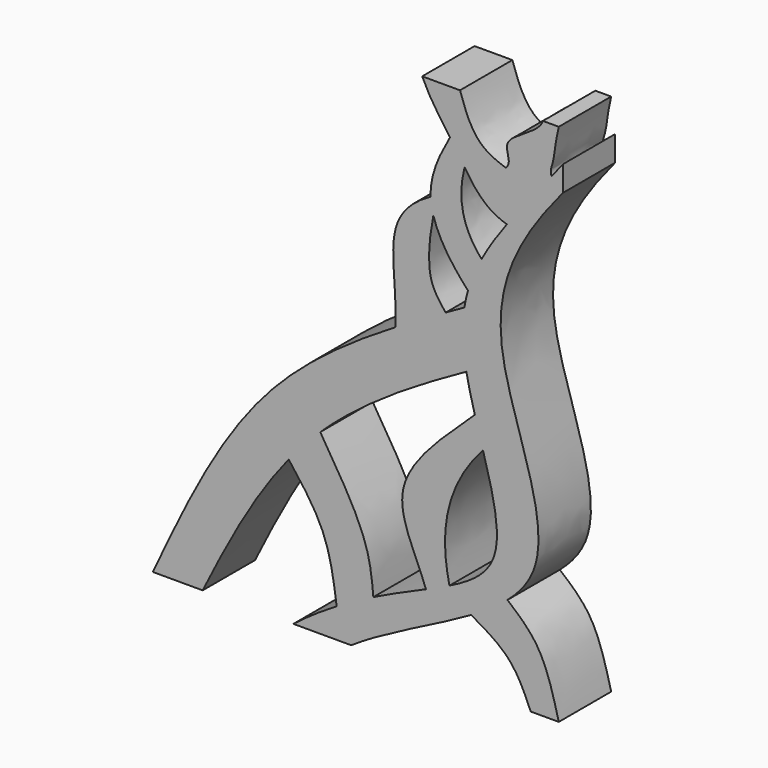
from build123d import *

# Parameters (mm, degrees)
F1_DEPTH = 50


with BuildPart() as f1:
    # F0 (on Front) → F1 (new body)
    with BuildSketch(Plane.XZ):
        with BuildLine():
            add(Edge.make_bspline(
                [(33.7840405817, 32.4410954859), (-1.3350670747, 11.1961369565), (-82.9727851373, -45.9388415897), (-125.8274168712, -137.6125319097), (-151.4273277136, -192.3071747745)],
                knots=[0.1650923147, 0.1650923147, 0.1650923147, 0.1650923147, 0.5023647043, 1, 1, 1, 1], degree=3))
            Line((-151.4273277136, -192.3071747745), (-113.3603453636, -192.3071747745))
            add(Edge.make_bspline(
                [(-47.6813485904, -82.8825103726), (-73.9418191046, -115.1830009143), (-94.0292507398, -153.2818472534), (-113.3603453636, -192.3071747745)],
                knots=[0.5680635842, 0.5680635842, 0.5680635842, 0.5680635842, 1, 1, 1, 1], degree=3))
            add(Edge.make_bspline(
                [(-23.5778673601, -56.7194873224), (-27.8845088808, -60.8451196614), (-36.1979815182, -69.3017688301), (-43.9455530092, -78.2874659017), (-47.6813485904, -82.8825103726)],
                knots=[0.44475387, 0.44475387, 0.44475387, 0.44475387, 0.5066166215, 0.5680635842, 0.5680635842, 0.5680635842, 0.5680635842], degree=3))
            add(Edge.make_bspline(
                [(87.9483139372, 20.1501727821), (45.3698576212, -3.4429156349), (7.3841483298, -27.0588126184), (-23.5778673601, -56.7194873224)],
                knots=[0, 0, 0, 0, 0.44475387, 0.44475387, 0.44475387, 0.44475387], degree=3))
            add(Edge.make_bspline(
                [(86.4029882629, 62.7652361886), (85.449929096, 56.9509946506), (84.4401796439, 43.3835035509), (86.3354202415, 28.6006214532), (87.9483139372, 20.1501727821)],
                knots=[0.2898066076, 0.2898066076, 0.2898066076, 0.2898066076, 0.3311800495, 0.3836336632, 0.3836336632, 0.3836336632, 0.3836336632], degree=3))
            add(Edge.make_bspline(
                [(86.4029882629, 62.7652361886), (81.6406325524, 60.0877235039), (76.8798373396, 57.4106422817), (72.1301305263, 54.7253465386)],
                knots=[0, 0, 0, 0, 0.0443569986, 0.0443569986, 0.0443569986, 0.0443569986], degree=3))
            add(Edge.make_bspline(
                [(72.1301305263, 54.7253465386), (59.2019033995, 47.4162399695), (46.35582734, 40.0462741519), (33.7840405817, 32.4410954859)],
                knots=[0.0443569986, 0.0443569986, 0.0443569986, 0.0443569986, 0.1650923147, 0.1650923147, 0.1650923147, 0.1650923147], degree=3))
        make_face()
        with BuildLine():
            add(Edge.make_bspline(
                [(-47.6813485904, -82.8825103726), (-37.6976178586, -95.8078145278), (-17.6570022581, -121.6548352785), (-13.2867608742, -153.7004230944), (-11.0641516952, -169.7119861588)],
                knots=[0, 0, 0, 0, 0.5013709336, 1, 1, 1, 1], degree=3))
            add(Edge.make_bspline(
                [(16.9321630542, -154.4396487608), (7.9475731058, -158.9016267331), (-1.4242642684, -163.9163277691), (-11.0641516952, -169.7119861588)],
                knots=[0.8987923644, 0.8987923644, 0.8987923644, 0.8987923644, 0.9466643403, 0.9466643403, 0.9466643403, 0.9466643403], degree=3))
            add(Edge.make_bspline(
                [(-23.5778673601, -56.7194873224), (-10.048506017, -78.2254081232), (13.3855203997, -115.4324178206), (15.8758483062, -142.8745703905), (16.9321630542, -154.4396487608)],
                knots=[0, 0, 0, 0, 0.5786754475, 1, 1, 1, 1], degree=3))
            add(Edge.make_bspline(
                [(-23.5778673601, -56.7194873224), (-27.8845088808, -60.8451196614), (-36.1979815182, -69.3017688301), (-43.9455530092, -78.2874659017), (-47.6813485904, -82.8825103726)],
                knots=[0.44475387, 0.44475387, 0.44475387, 0.44475387, 0.5066166215, 0.5680635842, 0.5680635842, 0.5680635842, 0.5680635842], degree=3))
        make_face()
        with BuildLine():
            Line((161.5726722864, 164.2289310694), (161.5726722864, 183.500433121))
            add(Edge.make_bspline(
                [(161.5726722864, 183.500433121), (158.6697561937, 179.7603709259), (155.7997051715, 176.1136274949), (152.9720624863, 172.5488397796)],
                knots=[0, 0, 0, 0, 0.0227975426, 0.0227975426, 0.0227975426, 0.0227975426], degree=3))
            add(Edge.make_bspline(
                [(152.9720624863, 172.5488397796), (149.5266021616, 168.2051740458), (146.144106472, 163.9831898515), (142.8418403639, 159.8623300408)],
                knots=[0.0227975426, 0.0227975426, 0.0227975426, 0.0227975426, 0.0505761686, 0.0505761686, 0.0505761686, 0.0505761686], degree=3))
            add(Edge.make_bspline(
                [(142.8418403639, 159.8623300408), (134.2230298354, 149.1070157325), (126.1507380473, 139.0405542113), (118.931917396, 129.2974610904)],
                knots=[0.0505761686, 0.0505761686, 0.0505761686, 0.0505761686, 0.1230775075, 0.1230775075, 0.1230775075, 0.1230775075], degree=3))
            add(Edge.make_bspline(
                [(118.931917396, 129.2974610904), (111.4275135493, 119.1689222297), (104.8454447873, 109.3898433661), (99.5305536728, 99.5496247644)],
                knots=[0.1230775075, 0.1230775075, 0.1230775075, 0.1230775075, 0.1984470661, 0.1984470661, 0.1984470661, 0.1984470661], degree=3))
            add(Edge.make_bspline(
                [(99.5305536728, 99.5496247644), (95.1743477908, 91.4843573429), (91.6694084315, 83.3780173754), (89.2056084764, 75.0045255924)],
                knots=[0.1984470661, 0.1984470661, 0.1984470661, 0.1984470661, 0.260221674, 0.260221674, 0.260221674, 0.260221674], degree=3))
            add(Edge.make_bspline(
                [(89.2056084764, 75.0045255924), (88.0256518483, 70.9943148164), (87.0844928908, 66.9228296031), (86.4029882629, 62.7652361886)],
                knots=[0.260221674, 0.260221674, 0.260221674, 0.260221674, 0.2898066076, 0.2898066076, 0.2898066076, 0.2898066076], degree=3))
            add(Edge.make_bspline(
                [(86.4029882629, 62.7652361886), (85.449929096, 56.9509946506), (84.4401796439, 43.3835035509), (86.3354202415, 28.6006214532), (87.9483139372, 20.1501727821)],
                knots=[0.2898066076, 0.2898066076, 0.2898066076, 0.2898066076, 0.3311800495, 0.3836336632, 0.3836336632, 0.3836336632, 0.3836336632], degree=3))
            add(Edge.make_bspline(
                [(87.9483139372, 20.1501727821), (89.6334036756, 11.3214667244), (91.9225091752, 2.2895818916), (94.4113235468, -6.7245809888)],
                knots=[0.3836336632, 0.3836336632, 0.3836336632, 0.3836336632, 0.4384351956, 0.4384351956, 0.4384351956, 0.4384351956], degree=3))
            add(Edge.make_bspline(
                [(94.4113235468, -6.7245809888), (96.4305537515, -14.0379709171), (98.5812410463, -21.3396954834), (100.6474662993, -28.5117831797)],
                knots=[0.4384351956, 0.4384351956, 0.4384351956, 0.4384351956, 0.4828968922, 0.4828968922, 0.4828968922, 0.4828968922], degree=3))
            add(Edge.make_bspline(
                [(100.6474662993, -28.5117831797), (108.2301787006, -54.8321847135), (119.9469648226, -99.5063533785), (92.6369226658, -119.1415299059), (75.0321073118, -127.8520125935)],
                knots=[0.4828968922, 0.4828968922, 0.4828968922, 0.4828968922, 0.6460641257, 0.7795199626, 0.7795199626, 0.7795199626, 0.7795199626], degree=3))
            add(Edge.make_bspline(
                [(75.0321073118, -127.8520125935), (69.5360042843, -130.5713657539), (63.5216279141, -133.2786604033), (57.0675570237, -136.1243560803)],
                knots=[0.7795199626, 0.7795199626, 0.7795199626, 0.7795199626, 0.8211839627, 0.8211839627, 0.8211839627, 0.8211839627], degree=3))
            add(Edge.make_bspline(
                [(57.0675570237, -136.1243560803), (45.045424625, -141.4250927436), (31.4976714177, -147.2060434603), (16.9321630542, -154.4396487608)],
                knots=[0.8211839627, 0.8211839627, 0.8211839627, 0.8211839627, 0.8987923644, 0.8987923644, 0.8987923644, 0.8987923644], degree=3))
            add(Edge.make_bspline(
                [(16.9321630542, -154.4396487608), (7.9475731058, -158.9016267331), (-1.4242642684, -163.9163277691), (-11.0641516952, -169.7119861588)],
                knots=[0.8987923644, 0.8987923644, 0.8987923644, 0.8987923644, 0.9466643403, 0.9466643403, 0.9466643403, 0.9466643403], degree=3))
            add(Edge.make_bspline(
                [(-11.0641516952, -169.7119861588), (-21.8042505923, -176.1691097249), (-32.877076864, -183.5956264599), (-44.1177855636, -192.3071747745)],
                knots=[0.9466643403, 0.9466643403, 0.9466643403, 0.9466643403, 1, 1, 1, 1], degree=3))
            Line((-44.1177855636, -192.3071747745), (0, -192.3071747745))
            add(Edge.make_bspline(
                [(91.6558492517, -142.1554952409), (63.5808744263, -158.4654974972), (28.6929657416, -173.0898848198), (0, -192.3071747745)],
                knots=[0.8011074852, 0.8011074852, 0.8011074852, 0.8011074852, 1, 1, 1, 1], degree=3))
            add(Edge.make_bspline(
                [(119.3154431729, -123.0815035944), (111.4612420038, -129.8801116218), (102.0230483979, -136.1327279003), (91.6558492517, -142.1554952409)],
                knots=[0.7276627779, 0.7276627779, 0.7276627779, 0.7276627779, 0.8011074852, 0.8011074852, 0.8011074852, 0.8011074852], degree=3))
            add(Edge.make_bspline(
                [(161.5726722864, 164.2289310694), (127.9283165879, 123.741138071), (90.0243038422, 52.1079771624), (162.5005260377, -72.9909762919), (128.5067292283, -115.1255129324), (119.3154431729, -123.0815035944)],
                knots=[0, 0, 0, 0, 0.3115903654, 0.6417149775, 0.7276627779, 0.7276627779, 0.7276627779, 0.7276627779], degree=3))
        make_face()
        with BuildLine():
            add(Edge.make_bspline(
                [(119.3154431729, -123.0815035944), (127.8271004026, -130.229203514), (146.5347439848, -145.9824570753), (154.2952784291, -176.0164611644), (158.504858613, -192.3071747745)],
                knots=[0, 0, 0, 0, 0.4583695956, 1, 1, 1, 1], degree=3))
            add(Edge.make_bspline(
                [(119.3154431729, -123.0815035944), (111.4612420038, -129.8801116218), (102.0230483979, -136.1327279003), (91.6558492517, -142.1554952409)],
                knots=[0.7276627779, 0.7276627779, 0.7276627779, 0.7276627779, 0.8011074852, 0.8011074852, 0.8011074852, 0.8011074852], degree=3))
            add(Edge.make_bspline(
                [(91.6558492517, -142.1554952409), (102.2562480915, -148.266180717), (123.0818131064, -159.961158959), (132.4458816607, -181.5720975488), (137.090831995, -192.3071747745)],
                knots=[0, 0, 0, 0, 0.5038335041, 1, 1, 1, 1], degree=3))
            Line((137.090831995, -192.3071747745), (158.504858613, -192.3071747745))
        make_face()
        with BuildLine():
            add(Edge.make_bspline(
                [(94.4113235468, -6.7245809888), (96.4305537515, -14.0379709171), (98.5812410463, -21.3396954834), (100.6474662993, -28.5117831797)],
                knots=[0.4384351956, 0.4384351956, 0.4384351956, 0.4384351956, 0.4828968922, 0.4828968922, 0.4828968922, 0.4828968922], degree=3))
            add(Edge.make_bspline(
                [(94.4113235468, -6.7245809888), (69.8929498645, -30.0484086542), (20.7095259404, -72.3808334135), (49.418452744, -114.6003239541), (57.0675570237, -136.1243560803)],
                knots=[0, 0, 0, 0, 0.5429128164, 1, 1, 1, 1], degree=3))
            add(Edge.make_bspline(
                [(75.0321073118, -127.8520125935), (69.5360042843, -130.5713657539), (63.5216279141, -133.2786604033), (57.0675570237, -136.1243560803)],
                knots=[0.7795199626, 0.7795199626, 0.7795199626, 0.7795199626, 0.8211839627, 0.8211839627, 0.8211839627, 0.8211839627], degree=3))
            add(Edge.make_bspline(
                [(100.6474662993, -28.5117831797), (85.276066462, -45.5253793732), (69.9269817684, -77.6031695274), (71.0284103415, -109.5876994667), (75.0321073118, -127.8520125935)],
                knots=[0, 0, 0, 0, 0.5186390985, 1, 1, 1, 1], degree=3))
        make_face()
        with BuildLine():
            add(Edge.make_bspline(
                [(60.7451200485, 128.8491934538), (60.921887229, 124.9463354687), (61.6026617993, 120.996224136), (62.7479620056, 117.0065256713)],
                knots=[0.4677213645, 0.4677213645, 0.4677213645, 0.4677213645, 0.588178468, 0.588178468, 0.588178468, 0.588178468], degree=3))
            add(Edge.make_bspline(
                [(60.7451200485, 128.8491934538), (48.2162620465, 122.1917617815), (31.5432081965, 105.5782023832), (31.9272311169, 71.1430044589), (34.5814806954, 43.8973117153), (33.7840405817, 32.4410954859)],
                knots=[0, 0, 0, 0, 0.3329948055, 0.6525577446, 1, 1, 1, 1], degree=3))
            add(Edge.make_bspline(
                [(72.1301305263, 54.7253465386), (59.2019033995, 47.4162399695), (46.35582734, 40.0462741519), (33.7840405817, 32.4410954859)],
                knots=[0.0443569986, 0.0443569986, 0.0443569986, 0.0443569986, 0.1650923147, 0.1650923147, 0.1650923147, 0.1650923147], degree=3))
            add(Edge.make_bspline(
                [(62.7479620056, 117.0065256713), (59.6024302783, 101.0624498763), (57.2427035001, 73.977040262), (66.555671879, 61.7784809906), (72.1301305263, 54.7253465386)],
                knots=[0, 0, 0, 0, 0.5746656103, 1, 1, 1, 1], degree=3))
        make_face()
        with BuildLine():
            add(Edge.make_bspline(
                [(75.4271748481, 173.5246273106), (77.3752720663, 170.7812263834), (81.134719612, 165.4233111741), (84.7614654199, 159.7675420119), (86.5594399231, 157.0506042409)],
                knots=[0.3943758085, 0.3943758085, 0.3943758085, 0.3943758085, 0.4949279004, 0.5888141141, 0.5888141141, 0.5888141141, 0.5888141141], degree=3))
            add(Edge.make_bspline(
                [(75.4271748481, 173.5246273106), (66.9712117374, 158.4454793727), (60.0587529981, 144.0035513846), (60.7451200485, 128.8491934538)],
                knots=[0, 0, 0, 0, 0.4677213645, 0.4677213645, 0.4677213645, 0.4677213645], degree=3))
            add(Edge.make_bspline(
                [(60.7451200485, 128.8491934538), (60.921887229, 124.9463354687), (61.6026617993, 120.996224136), (62.7479620056, 117.0065256713)],
                knots=[0.4677213645, 0.4677213645, 0.4677213645, 0.4677213645, 0.588178468, 0.588178468, 0.588178468, 0.588178468], degree=3))
            add(Edge.make_bspline(
                [(62.7479620056, 117.0065256713), (66.6635408444, 103.3664522692), (76.0086586492, 89.2636705474), (89.2056084764, 75.0045255924)],
                knots=[0.588178468, 0.588178468, 0.588178468, 0.588178468, 1, 1, 1, 1], degree=3))
            add(Edge.make_bspline(
                [(99.5305536728, 99.5496247644), (95.1743477908, 91.4843573429), (91.6694084315, 83.3780173754), (89.2056084764, 75.0045255924)],
                knots=[0.1984470661, 0.1984470661, 0.1984470661, 0.1984470661, 0.260221674, 0.260221674, 0.260221674, 0.260221674], degree=3))
            add(Edge.make_bspline(
                [(86.5594399231, 157.0506042409), (83.9878015469, 147.0462299724), (82.836579489, 127.8427234548), (90.6243055451, 109.9335235527), (99.5305536728, 99.5496247644)],
                knots=[0, 0, 0, 0, 0.4816112661, 1, 1, 1, 1], degree=3))
        make_face()
        with BuildLine():
            add(Edge.make_bspline(
                [(83.0902010202, 207.6928252255), (87.110088997, 195.8396449748), (93.5872758475, 177.0872799999), (110.8460810758, 169.3792962525), (118.0063178545, 167.0171113404)],
                knots=[0, 0, 0, 0, 0.4677504063, 0.7294986849, 0.7294986849, 0.7294986849, 0.7294986849], degree=3))
            Line((83.0902010202, 207.6928252255), (54.227810353, 207.6928252255))
            add(Edge.make_bspline(
                [(54.227810353, 207.6928252255), (60.0854175021, 194.6229659864), (67.7865340514, 184.2845323351), (75.4271748481, 173.5246273106)],
                knots=[0, 0, 0, 0, 0.3943758085, 0.3943758085, 0.3943758085, 0.3943758085], degree=3))
            add(Edge.make_bspline(
                [(75.4271748481, 173.5246273106), (77.3752720663, 170.7812263834), (81.134719612, 165.4233111741), (84.7614654199, 159.7675420119), (86.5594399231, 157.0506042409)],
                knots=[0.3943758085, 0.3943758085, 0.3943758085, 0.3943758085, 0.4949279004, 0.5888141141, 0.5888141141, 0.5888141141, 0.5888141141], degree=3))
            add(Edge.make_bspline(
                [(86.5594399231, 157.0506042409), (94.3573639982, 145.2670809389), (103.0350172008, 133.7468834117), (118.931917396, 129.2974610904)],
                knots=[0.5888141141, 0.5888141141, 0.5888141141, 0.5888141141, 0.9960042969, 0.9960042969, 0.9960042969, 0.9960042969], degree=3))
            add(Edge.make_bspline(
                [(142.8418403639, 159.8623300408), (134.2230298354, 149.1070157325), (126.1507380473, 139.0405542113), (118.931917396, 129.2974610904)],
                knots=[0.0505761686, 0.0505761686, 0.0505761686, 0.0505761686, 0.1230775075, 0.1230775075, 0.1230775075, 0.1230775075], degree=3))
            add(Edge.make_bspline(
                [(118.0063178545, 167.0171113404), (125.4059977095, 164.5759333951), (133.8391586431, 162.5656756814), (142.8418403639, 159.8623300408)],
                knots=[0.7294986849, 0.7294986849, 0.7294986849, 0.7294986849, 1, 1, 1, 1], degree=3))
        make_face()
        with BuildLine():
            add(Edge.make_bspline(
                [(158.504858613, 207.6928252255), (155.8710665844, 197.6334981347), (155.1200926152, 181.8258093222), (151.6002153146, 176.3836793356), (152.9720624863, 172.5488397796)],
                knots=[0, 0, 0, 0, 0.625221571, 1, 1, 1, 1], degree=3))
            Line((158.504858613, 207.6928252255), (146.4012861252, 207.6928252255))
            add(Edge.make_bspline(
                [(146.4012861252, 207.6928252255), (143.1155545876, 197.7078282598), (108.3076436448, 187.9302668709), (123.4952842004, 171.6174236455), (118.0063178545, 167.0171113404)],
                knots=[0, 0, 0, 0, 0.5941954131, 1, 1, 1, 1], degree=3))
            add(Edge.make_bspline(
                [(118.0063178545, 167.0171113404), (125.4059977095, 164.5759333951), (133.8391586431, 162.5656756814), (142.8418403639, 159.8623300408)],
                knots=[0.7294986849, 0.7294986849, 0.7294986849, 0.7294986849, 1, 1, 1, 1], degree=3))
            add(Edge.make_bspline(
                [(152.9720624863, 172.5488397796), (149.5266021616, 168.2051740458), (146.144106472, 163.9831898515), (142.8418403639, 159.8623300408)],
                knots=[0.0227975426, 0.0227975426, 0.0227975426, 0.0227975426, 0.0505761686, 0.0505761686, 0.0505761686, 0.0505761686], degree=3))
        make_face()
    extrude(amount=F1_DEPTH)


solid = f1.part
